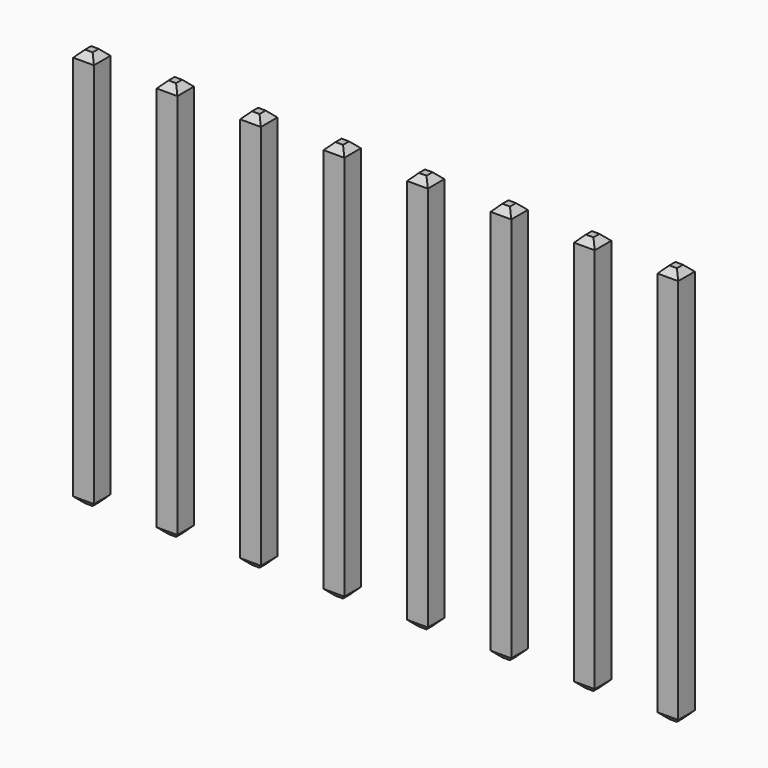
from build123d import *

# Parameters (mm, degrees)
SKETCH_W      = 0.63
SKETCH_H      = 12.155
PAD_DEPTH     = 0.315
CHAMFER_SIZE  = 0.2
ARRAY_X_COUNT = 8
ARRAY_X_PITCH = 2.54


with BuildPart() as part:
    # Sketch → Pad (new body, symmetric)
    with BuildSketch(Plane.YZ):
        with Locations((-0.315, 4.1375)):
            Rectangle(SKETCH_W, SKETCH_H)
    extrude(amount=PAD_DEPTH, both=True)

    # Chamfer
    chamfer_edges = [part.edges().sort_by_distance(p)[0] for p in [
        (0, 0, -1.94),
        (0, -0.63, -1.94),
        (-0.315, -0.315, -1.94),
        (0.315, -0.315, -1.94),
        (0, -0.63, 10.215),
        (0, 0, 10.215),
        (-0.315, -0.315, 10.215),
        (0.315, -0.315, 10.215),
    ]]
    chamfer(chamfer_edges, length=CHAMFER_SIZE)

    # Array X: part ×8


with BuildPart() as part_1:
    add(part.part)
    with Locations(*[(i * ARRAY_X_PITCH, 0, 0) for i in range(1, ARRAY_X_COUNT)]):
        add(part.part)


with BuildPart() as part_2:
    # Array placement: moved
    add(part_1.part.moved(Location((-8.89, 0.315, 0))))


solid = part_2.part
